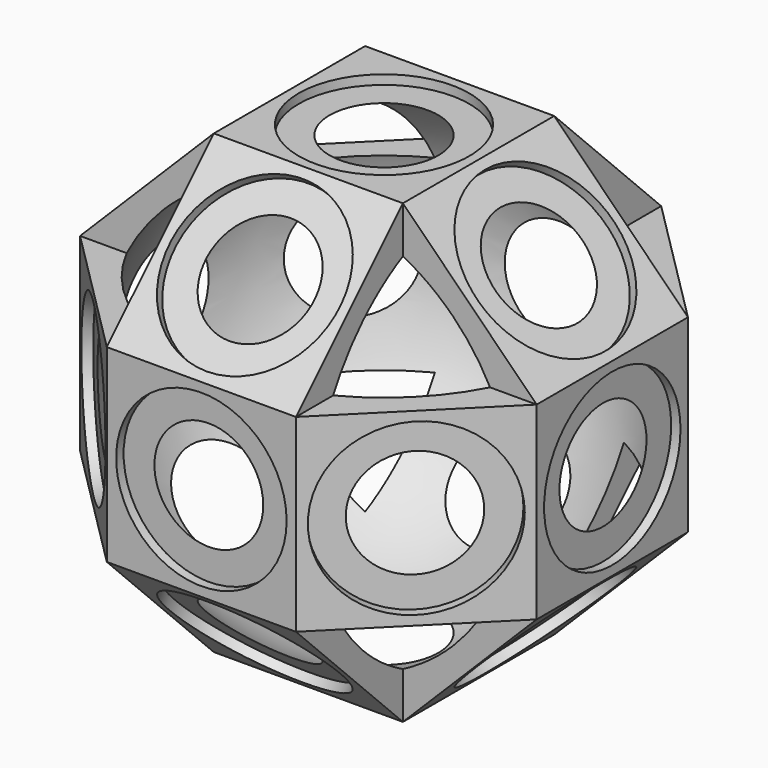
from build123d import *

# Parameters (mm, degrees)
F5_DEPTH      = 17.75
F5_DEPTH_BACK = 17.75
F6_R          = 16
F7_DEPTH      = 1.75
F8_COUNT      = 8
F9_COUNT      = 2
F9_ANGLE      = 90
F10_COUNT     = 2
F10_ANGLE     = 90


with BuildPart() as f5:
    # F4 (on Front) → F5 (new body, two sides)
    with BuildSketch(Plane.XZ) as f5_sk:
        Polygon((0, 17.75), (0, 0), (0, -17.75), (42.8522907321, -17.75), (42.8522907321, 0), (42.8522907321, 17.75), align=None)
    extrude(amount=F5_DEPTH)
    extrude(f5_sk.sketch, amount=-F5_DEPTH_BACK)

    # F6 (on face) → F7 (cut)
    with BuildSketch(Plane.YZ.offset(42.8522907321)):
        Circle(F6_R)
    extrude(amount=-F7_DEPTH, mode=Mode.SUBTRACT)

    # F8: F5 ×8 about axis
    f8_axis = Axis((0, 0, 8.875), (0, 0, 1))


with BuildPart() as f5_1:
    add(f5.part)
    for i in range(1, F8_COUNT):
        add(f5.part.rotate(f8_axis, i * 360 / F8_COUNT))

    # F9: F5 ×2 about axis
    f9_axis = Axis((8.875, 0, 0), (1, 0, 0))


with BuildPart() as f5_2:
    add(f5_1.part)
    for i in range(1, F9_COUNT):
        add(f5_1.part.rotate(f9_axis, i * F9_ANGLE / (F9_COUNT - 1)))

    # F10: F5 ×2 about axis
    f10_axis = Axis((0, 0, 8.875), (0, 0, 1))


with BuildPart() as f5_3:
    add(f5_2.part)
    for i in range(1, F10_COUNT):
        add(f5_2.part.rotate(f10_axis, i * F10_ANGLE / (F10_COUNT - 1)))


with BuildPart() as f11:
    # F4 (on Front) → F11 (revolve)
    with BuildSketch(Plane.XZ):
        with BuildLine():
            Line((0, -17.75), (0, 0))
            Line((0, 0), (0, 17.75))
            Line((0, 17.75), (0, 42.3522907321))
            ThreePointArc((0, 42.3522907321), (-42.3522907321, 0), (0, -42.3522907321))
            Line((0, -42.3522907321), (0, -17.75))
        make_face()
    revolve(axis=Axis((0, 0, -30.0511453661), (0, 0, -1)))


with BuildPart() as f5_4:
    add(f5_3.part)

    # F12: cut F11
    add(f11.part, mode=Mode.SUBTRACT)


solid = f5_4.part
